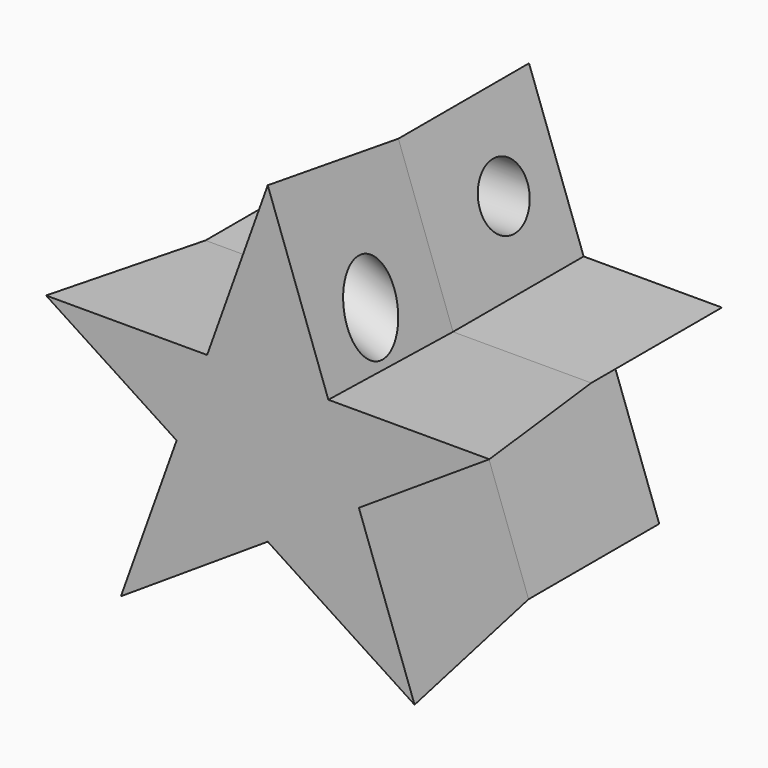
from build123d import *

# Parameters (mm, degrees)
F2_DEPTH      = 12.7
F2_TAPER      = -3
F2_DEPTH_BACK = 12.7
F3_R          = 2.54
F4_DEPTH      = 8.0921539509
F5_R          = 2.3034089063
F6_DEPTH      = 27.362293552


with BuildPart() as f2:
    # F1 (on Front) → F2 (new body, two sides)
    with BuildSketch(Plane.XZ) as f2_sk:
        Polygon((-16.4084644725, 10.7080111944), (-20.2470514737, 0), (-10.1235257369, 6.606518672), align=None)
        Polygon((-25.1235257369, 16.3953790609), (-16.4084644725, 10.7080111944), (-14.3696679147, 16.3953790609), align=None)
        Polygon((-14.3696679147, 16.3953790609), (-16.4084644725, 10.7080111944), (-10.1235257369, 6.606518672), (-3.8385870012, 10.7080111944), (-5.877383559, 16.3953790609), align=None)
        Polygon((-3.8385870012, 10.7080111944), (-10.1235257369, 6.606518672), (0, 0), align=None)
        Polygon((-10.1235257369, 28.2402943798), (-14.3696679147, 16.3953790609), (-5.877383559, 16.3953790609), align=None)
        Polygon((-5.877383559, 16.3953790609), (-3.8385870012, 10.7080111944), (4.8764742631, 16.3953790609), align=None)
    extrude(amount=F2_DEPTH, taper=F2_TAPER)
    extrude(f2_sk.sketch, amount=-F2_DEPTH_BACK)

    # F3 (on face) → F4 (cut, through all)
    with BuildSketch(Plane(origin=(-17.892314741, 0.9961261053, 6.4140021466), x_dir=(-0.0492660937, -0.9986295348, 0.0176608133), z_dir=(-0.9400530679, 0.0523359562, 0.3369883932))):
        with Locations((7.3562075321, 16.8761180249)):
            Circle(F3_R)
    extrude(amount=-F4_DEPTH, mode=Mode.SUBTRACT)

    # F5 (on Right) → F6 (cut, through all)
    with BuildSketch(Plane.YZ):
        with Locations((7.44647393, 22.0010466874)):
            Circle(F5_R)
    extrude(amount=-F6_DEPTH, mode=Mode.SUBTRACT)


solid = f2.part
